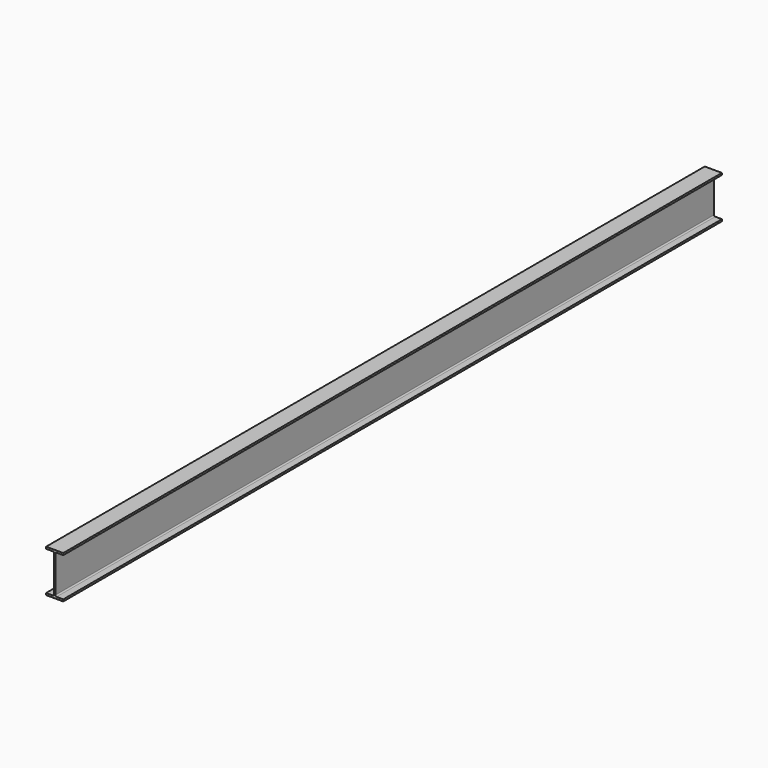
from build123d import *

# Parameters (mm, degrees)
F2_DEPTH = 6000


with BuildPart() as f2:
    # F0 (on Front) → F2 (new body)
    with BuildSketch(Plane.XZ):
        with BuildLine():
            Line((62.65, 181.9521076083), (0, 181.9521076083))
            Line((0, 181.9521076083), (-62.65, 181.9521076083))
            Line((-62.65, 181.9521076083), (-62.65, 167.9521076083))
            Line((-62.65, 167.9521076083), (-13.4, 167.9521076083))
            ThreePointArc((-13.4, 167.9521076083), (-7.1067496474, 165.3453579609), (-4.5, 159.0521076083))
            Line((-4.5, 159.0521076083), (-4.5, -106.1478923917))
            ThreePointArc((-4.5, -106.1478923917), (-7.1067496474, -112.4411427442), (-13.4, -115.0478923917))
            Line((-13.4, -115.0478923917), (-62.65, -115.0478923917))
            Line((-62.65, -115.0478923917), (-62.65, -129.0478923917))
            Line((-62.65, -129.0478923917), (0, -129.0478923917))
            Line((0, -129.0478923917), (62.65, -129.0478923917))
            Line((62.65, -129.0478923917), (62.65, -115.0478923917))
            Line((62.65, -115.0478923917), (13.4, -115.0478923917))
            ThreePointArc((13.4, -115.0478923917), (7.1067496474, -112.4411427442), (4.5, -106.1478923917))
            Line((4.5, -106.1478923917), (4.5, 159.0521076083))
            ThreePointArc((4.5, 159.0521076083), (7.1067496474, 165.3453579609), (13.4, 167.9521076083))
            Line((13.4, 167.9521076083), (62.65, 167.9521076083))
            Line((62.65, 167.9521076083), (62.65, 181.9521076083))
        make_face()
    extrude(amount=F2_DEPTH)


solid = f2.part
